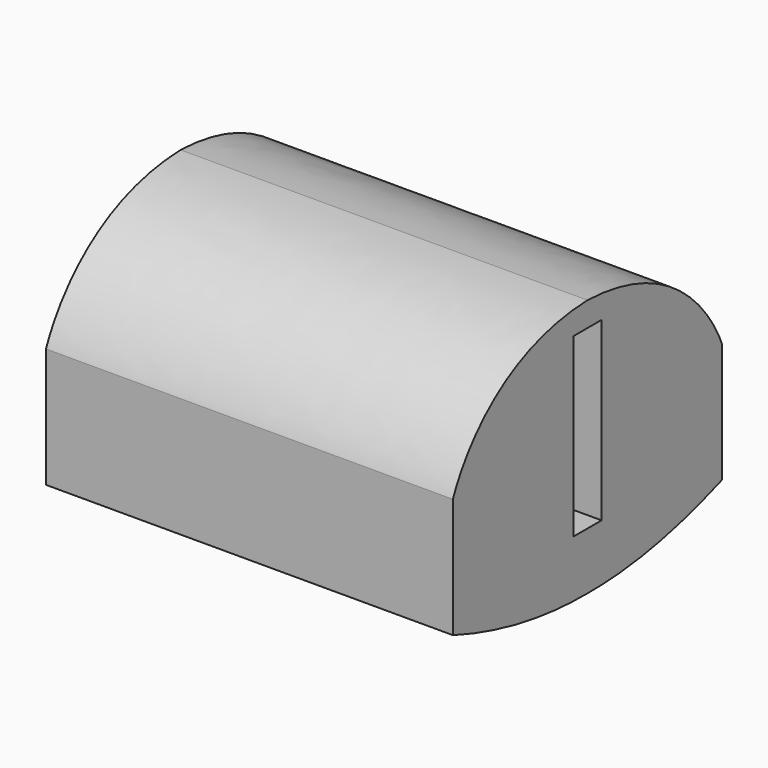
from build123d import *

# Parameters (mm, degrees)
BOX001_W     = 100
BOX001_H     = 120
BOX001_DEPTH = 600


with BuildPart() as cube001:
    # Box001 → Box001 (new body)
    with BuildSketch(Plane(origin=(4805, -60, -110), x_dir=(1, 0, 0), z_dir=(0, 0, 1))):
        with Locations((50, 60)):
            Rectangle(BOX001_W, BOX001_H)
    extrude(amount=BOX001_DEPTH)


with BuildPart() as sweep002:
    # Sweep002: sweep along a path in Sketch005
    with BuildLine(Plane.XZ) as sweep002_path:
        Line((4901.525879, 0.31053), (3518.000977, 0.31053))
    # Sketch004 → Sweep002 (sweep)
    with BuildSketch(Plane.YZ.offset(4700)):
        with BuildLine():
            add(Edge.make_bspline(
                [(0, 573.341003), (-451.187195, 557.981873), (-571.498, 209.848953), (-571.498, 209.848953)],
                knots=[0, 0, 0, 0, 1, 1, 1, 1], degree=3))
            Line((-571.498, 209.848953), (-571.498, -197.16))
            add(Edge.make_bspline(
                [(-571.498, -197.16), (-276.684204, -306.229828), (0, -304.212738)],
                knots=[0, 0, 0, 1, 1, 1], degree=2))
            Line((0, -304.212738), (0, 573.341003))
        make_face()
    sweep(path=sweep002_path.line)


with BuildPart() as cut001:
    # Part__Mirroring004: instance of Sweep002
    add(sweep002.part.mirror(Plane(origin=(0, 0, 0), x_dir=(1, 0, 0), z_dir=(0, 1, 0))))

    # Fusion: union Sweep002
    add(sweep002.part)

    # Cut001: cut Cube001
    add(cube001.part, mode=Mode.SUBTRACT)


solid = cut001.part
